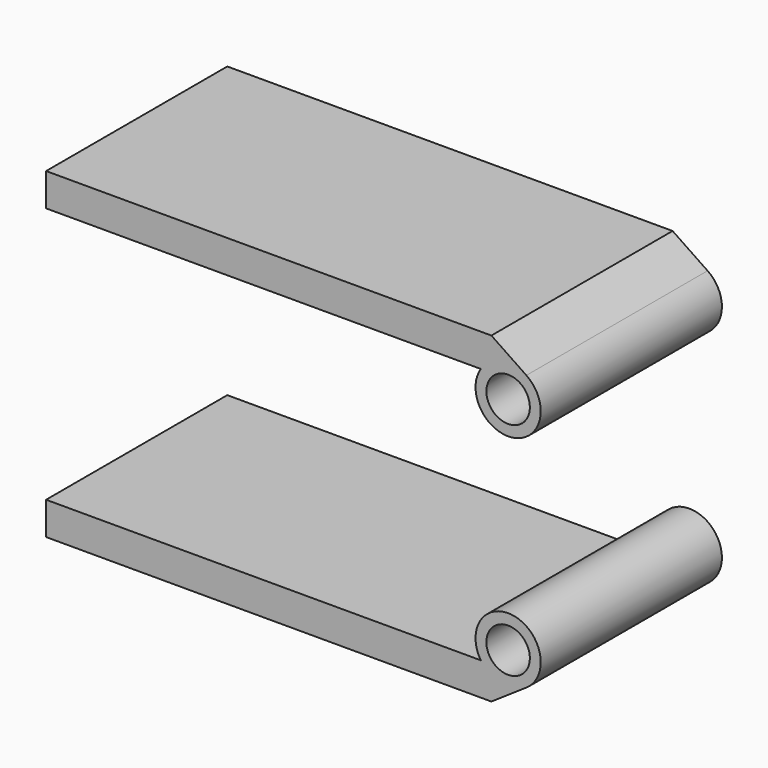
from build123d import *

# Parameters (mm, degrees)
F0_R     = 5
F1_DEPTH = 52.1


with BuildPart() as f1:
    # F0 (on Front) → F1 (new body)
    with BuildSketch(Plane.XZ):
        with BuildLine():
            Line((37.690056, 0), (-62.309944, 0))
            Line((-62.309944, 0), (-62.309944, -7.559837))
            Line((-62.309944, -7.559837), (40.124837, -7.559837))
            Line((40.124837, -7.559837), (48.174089, -2.11593))
            ThreePointArc((48.174089, -2.11593), (45.456154, 11.448382), (37.690056, 0))
        make_face()
        with Locations((43.972391, 4.096617)):
            Circle(F0_R, mode=Mode.SUBTRACT)
    extrude(amount=-F1_DEPTH)


with BuildPart() as f3_1:
    # F3: instance of F1
    add(f1.part.mirror(Plane.XY.offset(29.5)))


solid = Compound([f1.part, f3_1.part])
